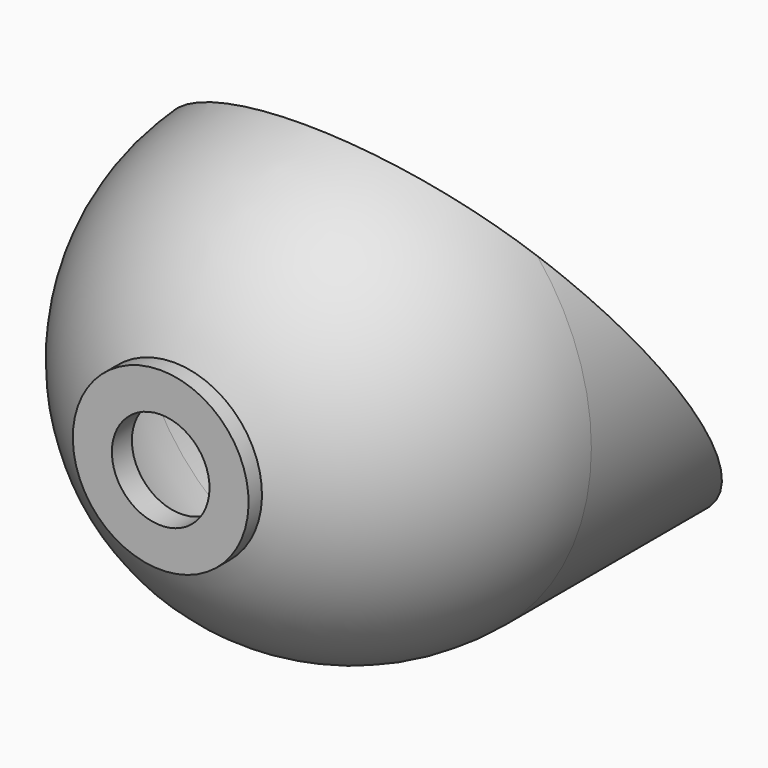
from build123d import *

# Parameters (mm, degrees)
F3_DEPTH = 15


with BuildPart() as f1:
    # F0 (on Right) → F1 (revolve)
    with BuildSketch(Plane.YZ):
        with BuildLine():
            Line((15, 12.25), (1.288e-07, 12.25))
            ThreePointArc((1.288e-07, 12.25), (-6.8897568365, 10.1288573262), (-11.3935288651, 4.5))
            Line((-11.3935288651, 4.5), (-10.3107953137, 4.5))
            ThreePointArc((-10.3107953137, 4.5), (-6.1618787719, 9.4124252985), (0, 11.25))
            Line((0, 11.25), (15, 11.25))
            Line((15, 11.25), (15, 12.25))
        make_face()
        with BuildLine():
            Line((-10.3107953137, 4.5), (-11.3935288651, 4.5))
            ThreePointArc((-11.3935288651, 4.5), (-11.7355401547, 3.5127762921), (-11.9921849552, 2.5))
            Line((-11.9921849552, 2.5), (-10.9687054842, 2.5))
            ThreePointArc((-10.9687054842, 2.5), (-10.6866406579, 3.5154247891), (-10.3107953137, 4.5))
        make_face()
        with BuildLine():
            ThreePointArc((-11.9921849552, 2.5), (-11.7355401547, 3.5127762921), (-11.3935288651, 4.5))
            Line((-11.3935288651, 4.5), (-12.25, 4.5))
            Line((-12.25, 4.5), (-12.25, 2.5))
            Line((-12.25, 2.5), (-11.9921849552, 2.5))
        make_face()
    revolve(axis=Axis((0, 1.375, 3.22e-08), (0, 1, -2.4e-09)))

    # F2 (on Right) → F3 (cut, symmetric)
    with BuildSketch(Plane.YZ):
        Polygon((-12.7222961238, 24.7129239332), (15, -12.25), (15, 24.7129239332), align=None)
    extrude(amount=F3_DEPTH, both=True, mode=Mode.SUBTRACT)


solid = f1.part
